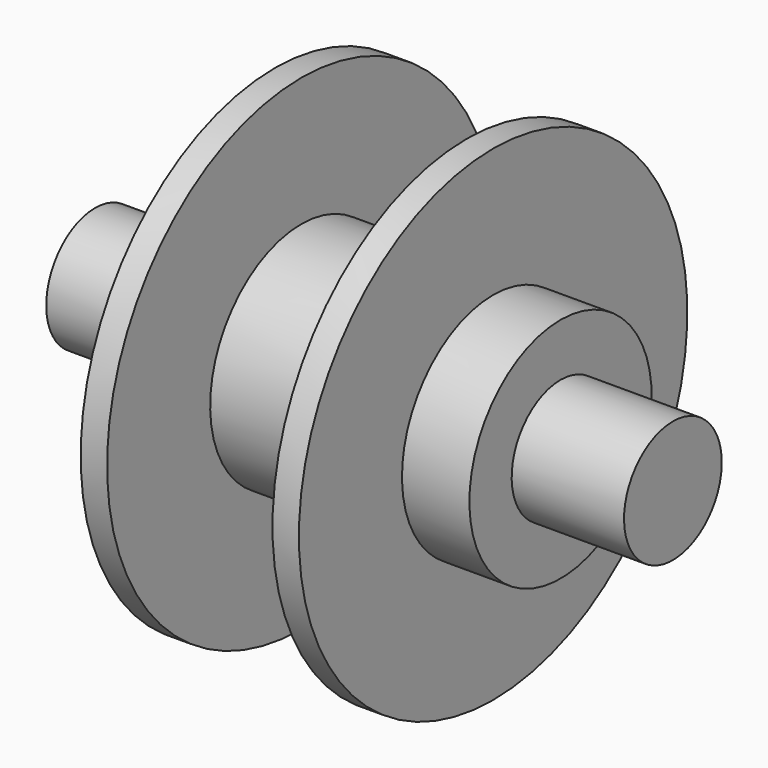
from build123d import *


with BuildPart() as f1:
    # F0 (on Front) → F1 (revolve)
    with BuildSketch(Plane.XZ):
        Polygon((-26.1366, 9.0424), (-42.7736, 9.0424), (-42.7736, 0), (0, 0), (0, 9.0424), (0, 16.8656), (-12.2428, 16.8656), (-12.2428, 35.941), (-16.1544, 35.941), (-16.1544, 16.8656), (-26.1366, 16.8656), align=None)
    revolve(axis=Axis((-21.3868, 0, 0), (1, 0, 0)))

    # F2: F1 across plane


with BuildPart() as f1_1:
    add(f1.part)
    add(f1.part.mirror(Plane.YZ))


solid = f1_1.part
